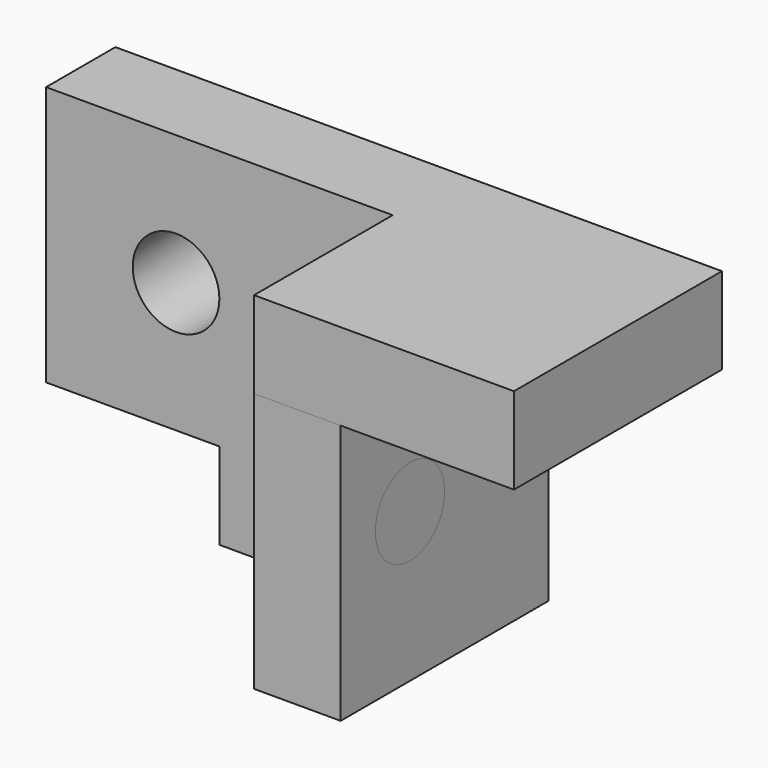
from build123d import *

# Parameters (mm, degrees)
F0_W     = 50.8
F0_H     = 76.2
F1_DEPTH = 25.4
F0_H_2   = 25.4
F2_DEPTH = 76.2
F4_R     = 12.7
F5_DEPTH = 25.4
F3_W     = 76.2
F3_H     = 76.2
F3_R     = 12.7
F6_DEPTH = 25.4


with BuildPart() as f1:
    # F0 (on Front) → F1 (new body)
    with BuildSketch(Plane.XZ):
        with Locations((-48.304801, 25.821041)):
            Rectangle(F0_W, F0_H)
        Polygon((27.895199, 63.921041), (-22.904801, 63.921041), (-22.904801, -12.278959), (-22.904801, -37.678959), (27.895199, -37.678959), align=None)
    extrude(amount=F1_DEPTH)

    # F0 (on Front) → F2 (join)
    with BuildSketch(Plane.XZ):
        Polygon((53.295199, 63.921041), (27.895199, 63.921041), (27.895199, -37.678959), (53.295199, -37.678959), (53.295199, 38.521041), align=None)
        with Locations((78.695199, 51.221041)):
            Rectangle(F0_W, F0_H_2)
    extrude(amount=F2_DEPTH)

    # F4 (on face) → F5 (cut)
    with BuildSketch(Plane.XZ.offset(25.4)):
        with Locations((-35.604801, 25.821041)):
            Circle(F4_R)
    extrude(amount=-F5_DEPTH, mode=Mode.SUBTRACT)


with BuildPart() as f6:
    # F3 (on face) → F6 (new body)
    with BuildSketch(Plane.YZ.offset(53.295199)):
        with Locations((-38.1, 0.421041)):
            Rectangle(F3_W, F3_H)
        with Locations((-50.8, 6.001113)):
            Circle(F3_R, mode=Mode.SUBTRACT)
    extrude(amount=-F6_DEPTH)


solid = Compound([f1.part, f6.part])
